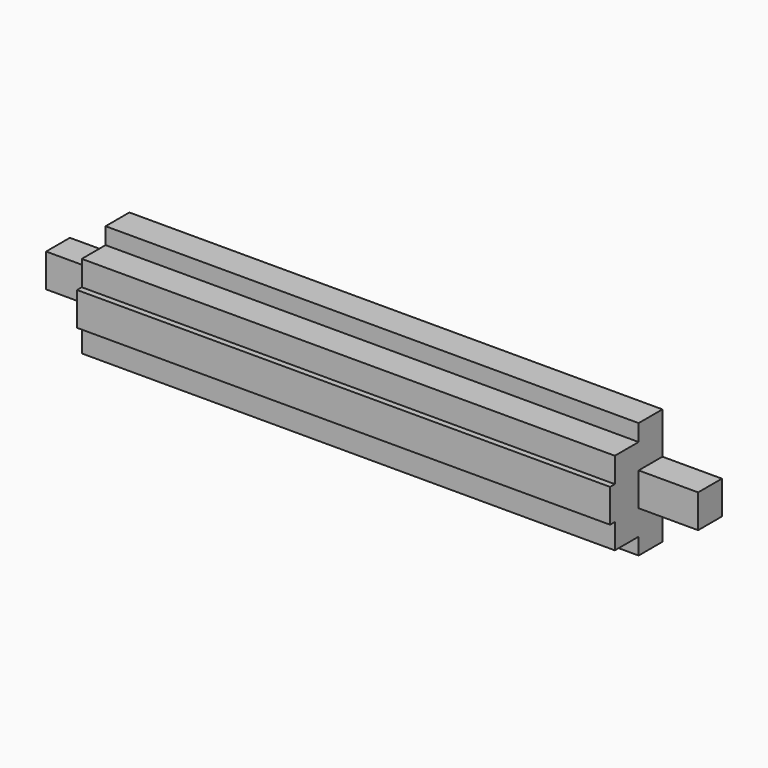
from build123d import *

# Parameters (mm, degrees)
F0_W     = 448
F0_H     = 14
F0_H_2   = 21
F0_W_2   = 50
F0_H_3   = 28
F1_DEPTH = 25
F2_W     = 448
F2_H     = 21
F3_DEPTH = 25
F4_W     = 448
F4_H     = 28
F5_DEPTH = 30


with BuildPart() as f1:
    # F0 (on Front) → F1 (new body)
    with BuildSketch(Plane.XZ):
        with Locations((0, -42)):
            Rectangle(F0_W, F0_H)
        with Locations((0, -24.5)):
            Rectangle(F0_W, F0_H_2)
        with Locations((249, 0)):
            Rectangle(F0_W_2, F0_H_3)
        Rectangle(F0_W, F0_H_3)
        with Locations((-249, 0)):
            Rectangle(F0_W_2, F0_H_3)
        with Locations((0, 24.5)):
            Rectangle(F0_W, F0_H_2)
        with Locations((0, 42)):
            Rectangle(F0_W, F0_H)
    extrude(amount=F1_DEPTH)

    # F2 (on face) → F3 (join)
    with BuildSketch(Plane.XZ.offset(25)):
        with Locations((0, 24.5)):
            Rectangle(F2_W, F2_H)
        with Locations((0, -24.5)):
            Rectangle(F2_W, F2_H)
    extrude(amount=F3_DEPTH)

    # F4 (on face) → F5 (join)
    with BuildSketch(Plane.XZ.offset(25)):
        Rectangle(F4_W, F4_H)
    extrude(amount=F5_DEPTH)


solid = f1.part
